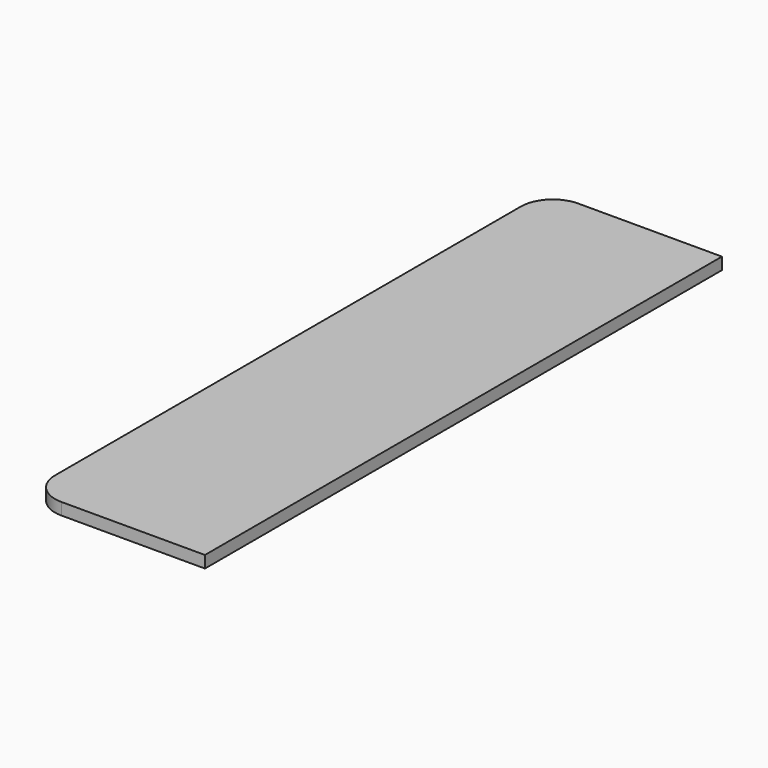
from build123d import *

# Parameters (mm, degrees)
F1_DEPTH = 19.05


with BuildPart() as f1:
    # F0 (on Top) → F1 (new body)
    with BuildSketch(Plane.XY):
        with BuildLine():
            Line((126.48532, 708.273513), (-102.11468, 708.273513))
            ThreePointArc((-102.11468, 708.273513), (-138.035704, 693.394538), (-152.91468, 657.473513))
            Line((-152.91468, 657.473513), (-152.91468, -269.626487))
            ThreePointArc((-152.91468, -269.626487), (-138.035704, -305.547511), (-102.11468, -320.426487))
            Line((-102.11468, -320.426487), (126.48532, -320.426487))
            Line((126.48532, -320.426487), (126.48532, 708.273513))
        make_face()
    extrude(amount=F1_DEPTH)


solid = f1.part
